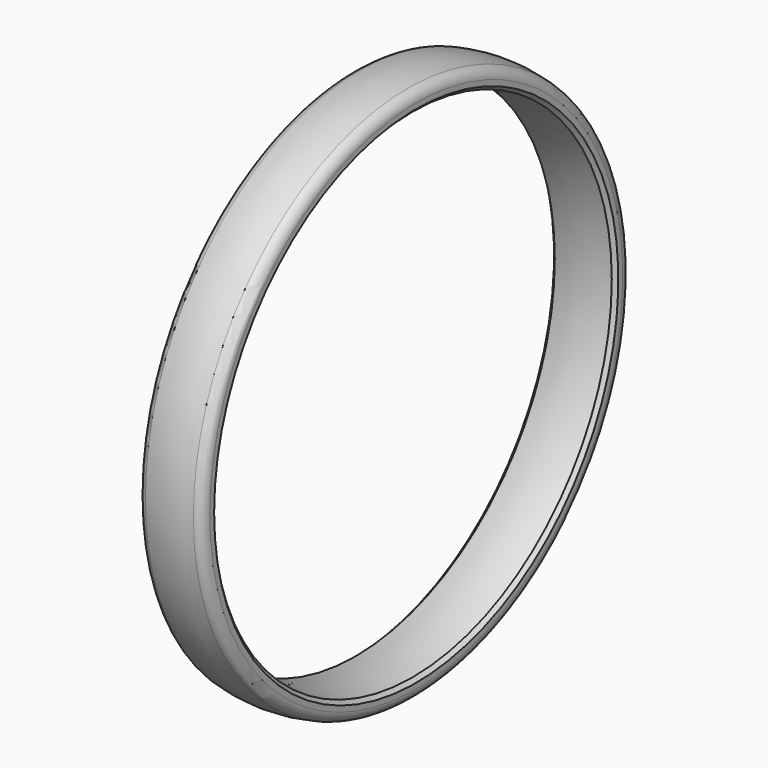
from build123d import *


with BuildPart() as part:
    # Sketch → Revolution (revolve)
    with BuildSketch(Plane.XY):
        with BuildLine():
            Line((0, -982.9308), (0, -1004.25873))
            ThreePointArc((0, -1004.25873), (8.885888, -1029.747625), (31.691892, -1044.188156))
            ThreePointArc((31.691892, -1044.188156), (125, -1054.92), (218.308108, -1044.188156))
            ThreePointArc((218.308108, -1044.188156), (241.114112, -1029.747625), (250, -1004.25873))
            Line((250, -982.9308), (250, -1004.25873))
            Line((235.857857, -968.788672), (250, -982.9308))
            ThreePointArc((235.857857, -968.788672), (125, -954.92), (14.142143, -968.788672))
            Line((14.142143, -968.788672), (0, -982.9308))
        make_face()
    revolve(axis=Axis((0, 0, 0), (1, 0, 0)))


solid = part.part
